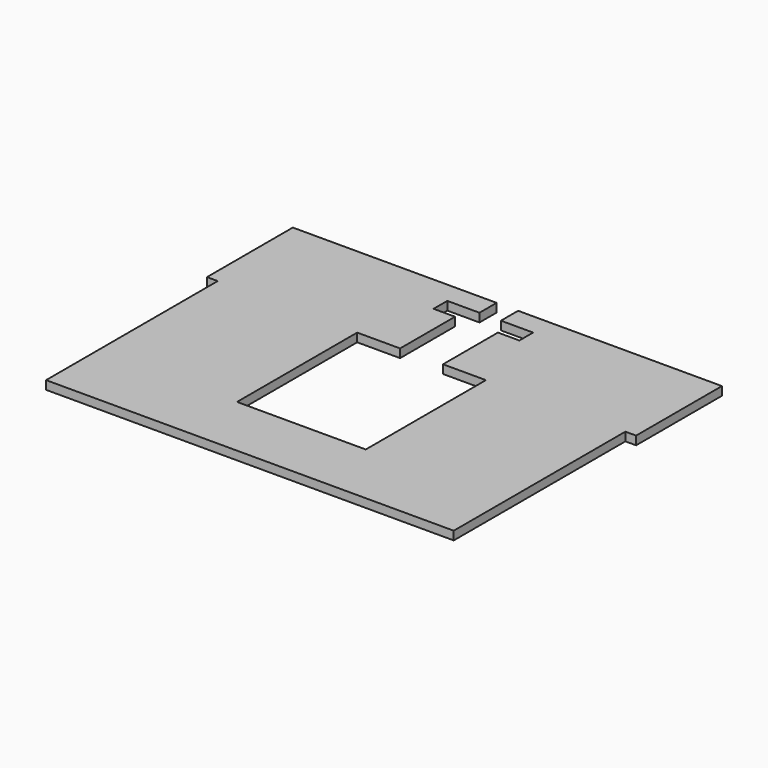
from build123d import *

# Parameters (mm, degrees)
F1_DEPTH = 4


with BuildPart() as f1:
    # F0 (on Top) → F1 (new body)
    with BuildSketch(Plane.XY):
        Polygon((5, -10), (20, -10), (20, -18), (10, -18), (10, -50), (30, -50), (30, -120), (-30, -120), (-30, -50), (-10, -50), (-10, -18), (-20, -18), (-20, -10), (-5, -10), (-5, 0), (-100, 0), (-100, -50), (-95, -50), (-95, -150), (95, -150), (95, -50), (100, -50), (100, 0), (5, 0), align=None)
    extrude(amount=F1_DEPTH)


solid = f1.part
